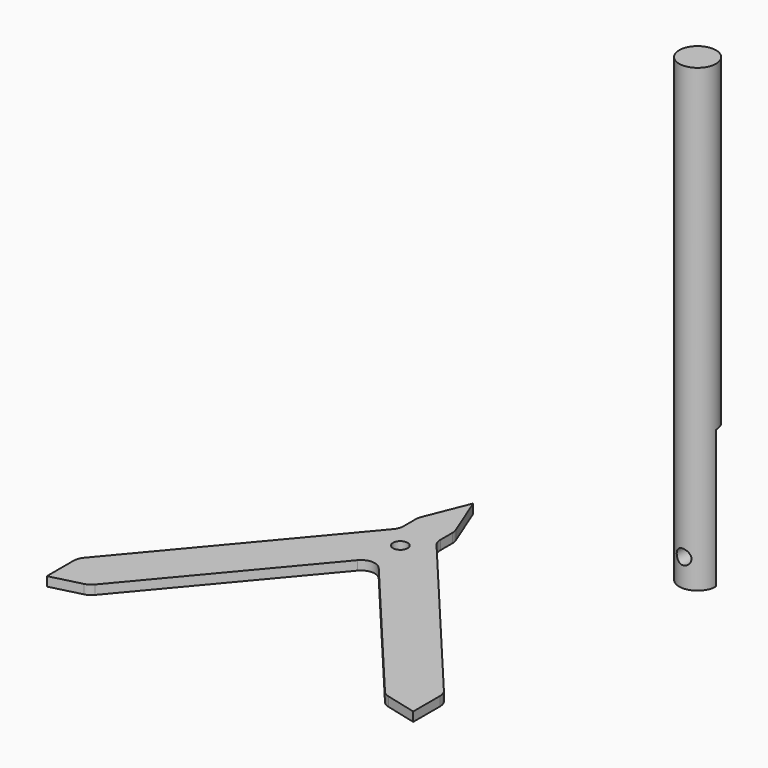
from build123d import *

# Parameters (mm, degrees)
F0_R     = 1.6
F1_DEPTH = 2
F2_DEPTH = 100
F3_DEPTH = 30
F5_D     = 3.2
F6_R     = 3


with BuildPart() as f1:
    # F0 (on Top) → F1 (new body)
    with BuildSketch(Plane.XY):
        Polygon((-32.1393804843, -38.3022221559), (0, 0), (32.1393804843, -38.3022221559), (39.7998249155, -40.2478127563), (39.7998249155, -31.8743460591), (4, 10.7902238982), (4, 15.7902238982), (0, 25.7902238982), (-4, 15.7902238982), (-4, 10.7902238982), (-39.7998249155, -31.8743460591), (-39.7998249155, -40.2478127563), align=None)
        with Locations((0, 6)):
            Circle(F0_R, mode=Mode.SUBTRACT)
    extrude(amount=F1_DEPTH)

    # F6
    f6_edges = [f1.edges().sort_by_distance(p)[0] for p in [
        (4, 15.790224, 1),
        (4, 10.790224, 1),
        (-4, 15.790224, 1),
        (-4, 10.790224, 1),
        (-39.799825, -31.874346, 1),
        (-32.13938, -38.302222, 1),
        (32.13938, -38.302222, 1),
        (39.799825, -31.874346, 1),
        (0, 0, 1),
    ]]
    fillet(f6_edges, radius=F6_R)


with BuildPart() as f2:
    # F0 (on Top) → F2 (new body)
    with BuildSketch(Plane.XY):
        with BuildLine():
            Line((40.8558703065, 30.6639820337), (48.8558703065, 30.6639820337))
            ThreePointArc((48.8558703065, 30.6639820337), (44.8558703065, 34.6639820337), (40.8558703065, 30.6639820337))
        make_face()
        with BuildLine():
            ThreePointArc((40.8558703065, 30.6639820337), (44.8558703065, 26.6639820337), (48.8558703065, 30.6639820337))
            Line((48.8558703065, 30.6639820337), (40.8558703065, 30.6639820337))
        make_face()
    extrude(amount=F2_DEPTH)

    # F0 (on Top) → F3 (cut)
    with BuildSketch(Plane.XY):
        with BuildLine():
            Line((40.8558703065, 30.6639820337), (48.8558703065, 30.6639820337))
            ThreePointArc((48.8558703065, 30.6639820337), (44.8558703065, 34.6639820337), (40.8558703065, 30.6639820337))
        make_face()
    extrude(amount=F3_DEPTH, mode=Mode.SUBTRACT)

    # F5 (through all)
    with Locations(Plane(origin=(0, 30.6639820337, 0), x_dir=(-1, 0, 0), z_dir=(0, 1, 0))):
        with Locations((-44.8558703065, 6)):
            Hole(F5_D / 2)


solid = Compound([f1.part, f2.part])
